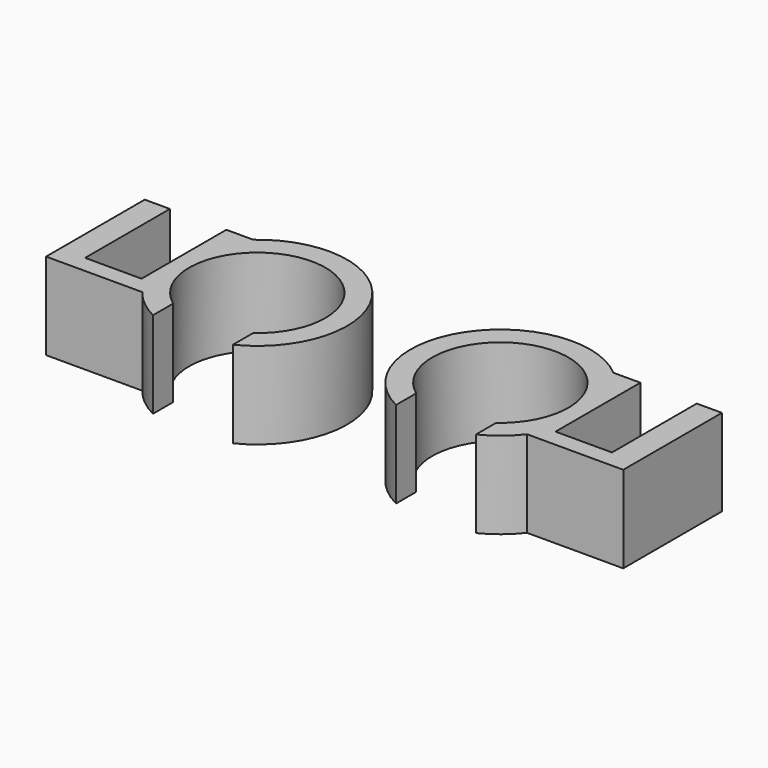
from build123d import *

# Parameters (mm, degrees)
F0_R     = 10.35
F0_R_2   = 7.85
F1_DEPTH = 10
F3_DEPTH = 25
F5_DEPTH = 10
F6_W     = 6.5
F6_H     = 12.85
F7_DEPTH = 6.4
F8_W     = 4.4
F8_H     = 11.0092157632
F9_DEPTH = 25


with BuildPart() as f1:
    # F0 (on Top) → F1 (new body)
    with BuildSketch(Plane.XY):
        Circle(F0_R)
        Circle(F0_R_2, mode=Mode.SUBTRACT)
    extrude(amount=F1_DEPTH)

    # F2 (on face) → F3 (cut)
    with BuildSketch(Plane.XY.offset(10)):
        with BuildLine():
            ThreePointArc((4.602485728, -6.3592157632), (0, -7.85), (-4.602485728, -6.3592157632))
            Line((-4.602485728, -6.3592157632), (-4.602485728, -9.2703627288))
            ThreePointArc((-4.602485728, -9.2703627288), (0, -10.35), (4.602485728, -9.2703627288))
            Line((4.602485728, -9.2703627288), (4.602485728, -6.3592157632))
        make_face()
    extrude(amount=-F3_DEPTH, mode=Mode.SUBTRACT)

    # F4 (on face) → F5 (join, through all)
    with BuildSketch(Plane.XY.offset(10)):
        with BuildLine():
            ThreePointArc((-8.1659582951, -6.3592157632), (-10.2986587451, 1.0296251996), (-6.7453687816, 7.85))
            Line((-6.7453687816, 7.85), (-19.25, 7.85))
            Line((-19.25, 7.85), (-19.25, -6.3592157632))
            Line((-19.25, -6.3592157632), (-8.1659582951, -6.3592157632))
        make_face()
    extrude(amount=-F5_DEPTH)

    # F6 (on face) → F7 (cut, through all)
    with BuildSketch(Plane.XY.offset(10)):
        with Locations((-13.1, 2.0657842368)):
            Rectangle(F6_W, F6_H)
    extrude(amount=-F7_DEPTH, mode=Mode.SUBTRACT)

    # F8 (on face) → F9 (cut)
    with BuildSketch(Plane(origin=(0, 0, 0), x_dir=(1, 0, 0), z_dir=(0, 0, -1))):
        with Locations((-13.05, -1.1453921184)):
            Rectangle(F8_W, F8_H)
    extrude(amount=-F9_DEPTH, mode=Mode.SUBTRACT)


with BuildPart() as f10_1:
    # F10: instance of F1
    add(f1.part.mirror(Plane.YZ))


with BuildPart() as f10_1_1:
    # F11: moved
    add(f10_1.part.moved(Location((31.1, 0, 0))))


with BuildPart() as f13_1:
    # F13: instance of F1
    add(f1.part.mirror(Plane.YZ))


with BuildPart() as f13_1_1:
    # F14: moved
    add(f13_1.part.moved(Location((28, 0, 0))))


solid = Compound([f1.part, f13_1_1.part])
